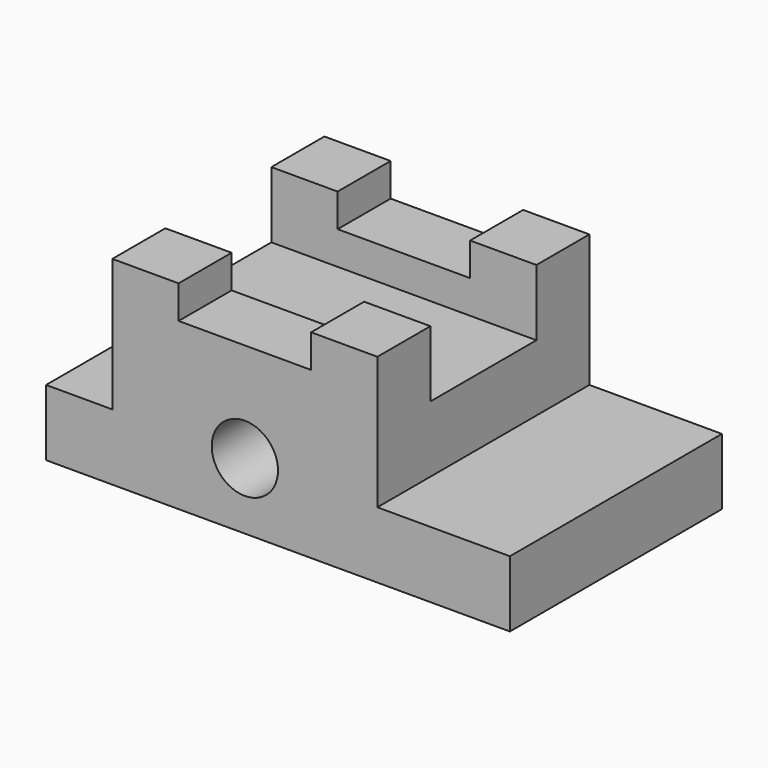
from build123d import *

# Parameters (mm, degrees)
F0_W      = 88.9
F0_H      = 38.1
F1_DEPTH  = 50.8
F2_W      = 12.7
F2_H      = 25.4
F3_DEPTH  = 50.801
F4_W      = 25.4
F4_H      = 25.4
F5_DEPTH  = 50.801
F6_W      = 25.4
F6_H      = 6.35
F7_DEPTH  = 50.801
F8_R      = 6.35
F9_DEPTH  = 50.801
F10_W     = 25.4
F10_H     = 12.7
F11_DEPTH = 63.501


with BuildPart() as f1:
    # F0 (on Front) → F1 (new body)
    with BuildSketch(Plane.XZ):
        Rectangle(F0_W, F0_H)
    extrude(amount=F1_DEPTH)

    # F2 (on face) → F3 (cut, through all)
    with BuildSketch(Plane.XZ.offset(50.8)):
        with Locations((-38.1, 6.35)):
            Rectangle(F2_W, F2_H)
    extrude(amount=-F3_DEPTH, mode=Mode.SUBTRACT)

    # F4 (on face) → F5 (cut, through all)
    with BuildSketch(Plane.XZ.offset(50.8)):
        with Locations((31.75, 6.35)):
            Rectangle(F4_W, F4_H)
    extrude(amount=-F5_DEPTH, mode=Mode.SUBTRACT)

    # F6 (on face) → F7 (cut, through all)
    with BuildSketch(Plane.XZ.offset(50.8)):
        with Locations((-6.35, 15.875)):
            Rectangle(F6_W, F6_H)
    extrude(amount=-F7_DEPTH, mode=Mode.SUBTRACT)

    # F8 (on face) → F9 (cut, through all)
    with BuildSketch(Plane.XZ.offset(50.8)):
        with Locations((-6.35, -6.35)):
            Circle(F8_R)
    extrude(amount=-F9_DEPTH, mode=Mode.SUBTRACT)

    # F10 (on face) → F11 (cut, through all)
    with BuildSketch(Plane.YZ.offset(19.05)):
        with Locations((-25.4, 12.7)):
            Rectangle(F10_W, F10_H)
    extrude(amount=-F11_DEPTH, mode=Mode.SUBTRACT)


solid = f1.part
